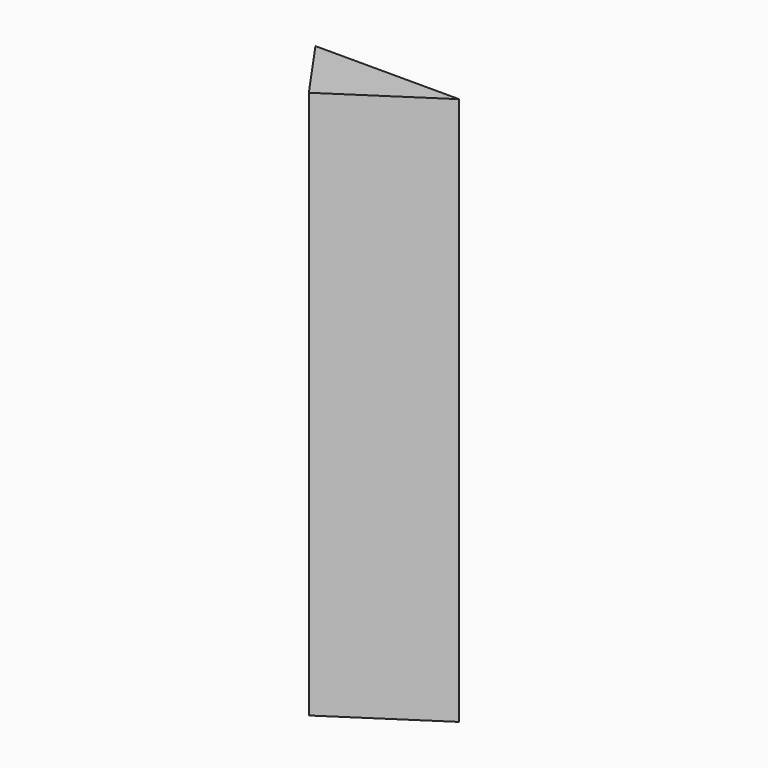
from build123d import *

# Parameters (mm, degrees)
F1_DEPTH = 94.384074


with BuildPart() as f1:
    # F0 (on Top) → F1 (new body)
    with BuildSketch(Plane.XY):
        Polygon((-35.095274, 65.841161), (-27.301029, 54.677364), (-10.348588, 65.841161), align=None)
    extrude(amount=-F1_DEPTH)


solid = f1.part
